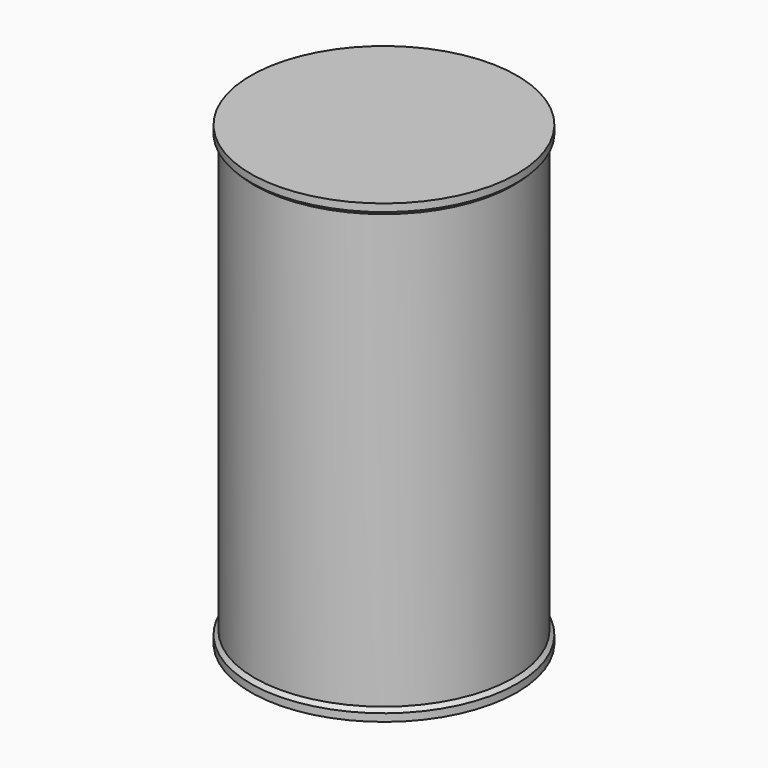
from build123d import *


with BuildPart() as f1:
    # F0 (on Front) → F1 (revolve)
    with BuildSketch(Plane.XZ):
        Polygon((8.75, 30), (8.5, 30), (8.5, 29.25), (8.75, 29.5), align=None)
        Polygon((8.75, 0.5), (8.5, 0.75), (8.5, 0), (8.75, 0), align=None)
        Polygon((8.5, 30), (0, 30), (0, 29.2), (8.1, 29.2), (8.1, 15), (8.1, 0.8), (0, 0.8), (0, 0), (8.5, 0), (8.5, 0.75), (8.5, 29.25), align=None)
    revolve(axis=Axis((0, 0, 15), (0, 0, -1)))


solid = f1.part
